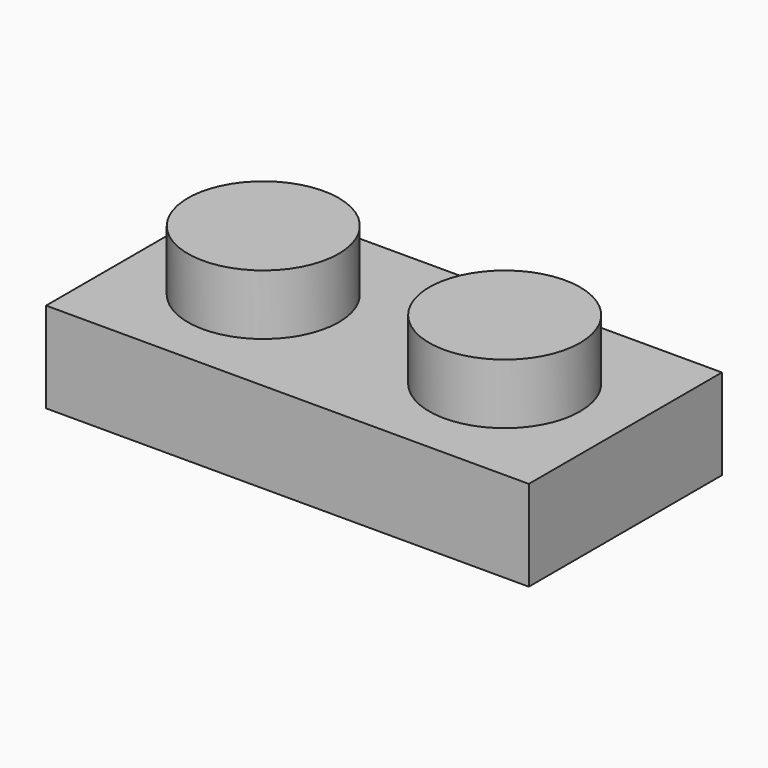
from build123d import *

# Parameters (mm, degrees)
F0_W     = 16
F0_H     = 8
F1_DEPTH = 3
F2_R     = 2.5
F3_DEPTH = 2
F4_W     = 14
F4_H     = 6
F5_DEPTH = 2
F6_R     = 1.5
F6_R_2   = 0.75
F7_DEPTH = 2
F8_R     = 1
F9_DEPTH = 1


with BuildPart() as f1:
    # F0 (on Top) → F1 (new body)
    with BuildSketch(Plane.XY):
        with Locations((17.171192, -5.046524)):
            Rectangle(F0_W, F0_H)
    extrude(amount=F1_DEPTH)

    # F2 (on face) → F3 (join)
    with BuildSketch(Plane.XY.offset(3)):
        with Locations((13.171192, -5.046524)):
            Circle(F2_R)
        with Locations((21.171192, -5.046524)):
            Circle(F2_R)
    extrude(amount=F3_DEPTH)

    # F4 (on face) → F5 (cut)
    with BuildSketch(Plane(origin=(0, 0, 0), x_dir=(1, 0, 0), z_dir=(0, 0, -1))):
        with Locations((17.171192, 5.18152)):
            Rectangle(F4_W, F4_H)
    extrude(amount=-F5_DEPTH, mode=Mode.SUBTRACT)

    # F6 (on face) → F7 (join)
    with BuildSketch(Plane(origin=(0, 0, 2), x_dir=(1, 0, 0), z_dir=(0, 0, -1))):
        with Locations((17.171192, 5.18152)):
            Circle(F6_R)
        with Locations((17.171192, 5.18152)):
            Circle(F6_R_2, mode=Mode.SUBTRACT)
    extrude(amount=F7_DEPTH)

    # F8 (on face) → F9 (cut)
    with BuildSketch(Plane(origin=(0, 0, 2), x_dir=(1, 0, 0), z_dir=(0, 0, -1))):
        with Locations((12.171192, 5.18152)):
            Circle(F8_R)
        with Locations((22.171192, 5.18152)):
            Circle(F8_R)
    extrude(amount=-F9_DEPTH, mode=Mode.SUBTRACT)


solid = f1.part
